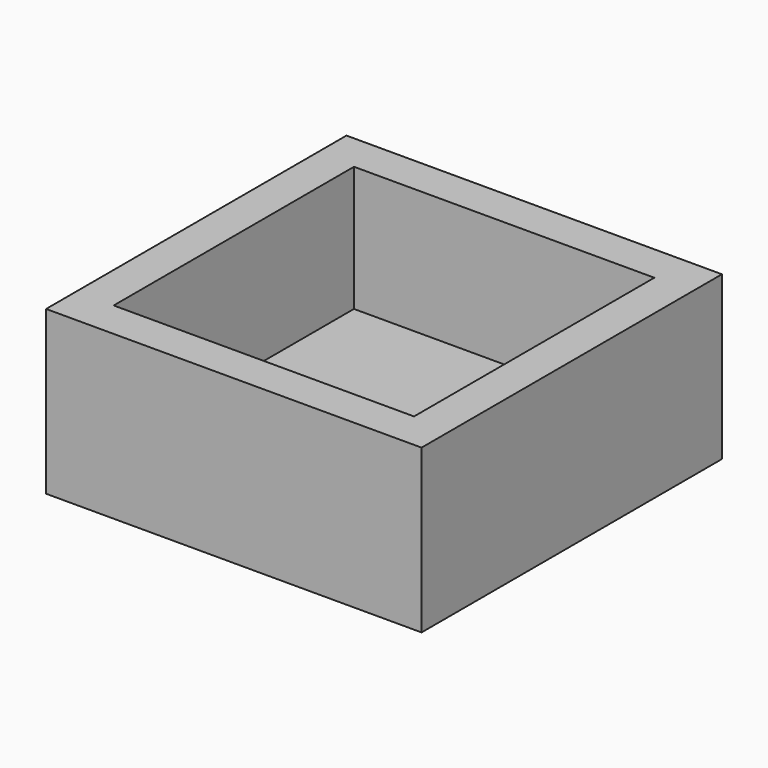
from build123d import *

# Parameters (mm, degrees)
SKETCH_W      = 300
SKETCH_H      = 300
PAD_DEPTH     = 30
SKETCH001_W   = 300
SKETCH001_H   = 300
SKETCH001_W_2 = 240
SKETCH001_H_2 = 240
PAD001_DEPTH  = 100


with BuildPart() as body:
    # Sketch → Pad (new body)
    with BuildSketch(Plane.XY):
        with Locations((150, 150)):
            Rectangle(SKETCH_W, SKETCH_H)
    extrude(amount=PAD_DEPTH)


with BuildPart() as body001:
    # Sketch001 (on Face6 of Pad) → Pad001 (new body)
    with BuildSketch(Plane.XY.offset(30)):
        with Locations((150, 150)):
            Rectangle(SKETCH001_W, SKETCH001_H)
        with Locations((150, 150)):
            Rectangle(SKETCH001_W_2, SKETCH001_H_2, mode=Mode.SUBTRACT)
    extrude(amount=PAD001_DEPTH)

    # Boolean: union Body
    add(body.part)


solid = body001.part
